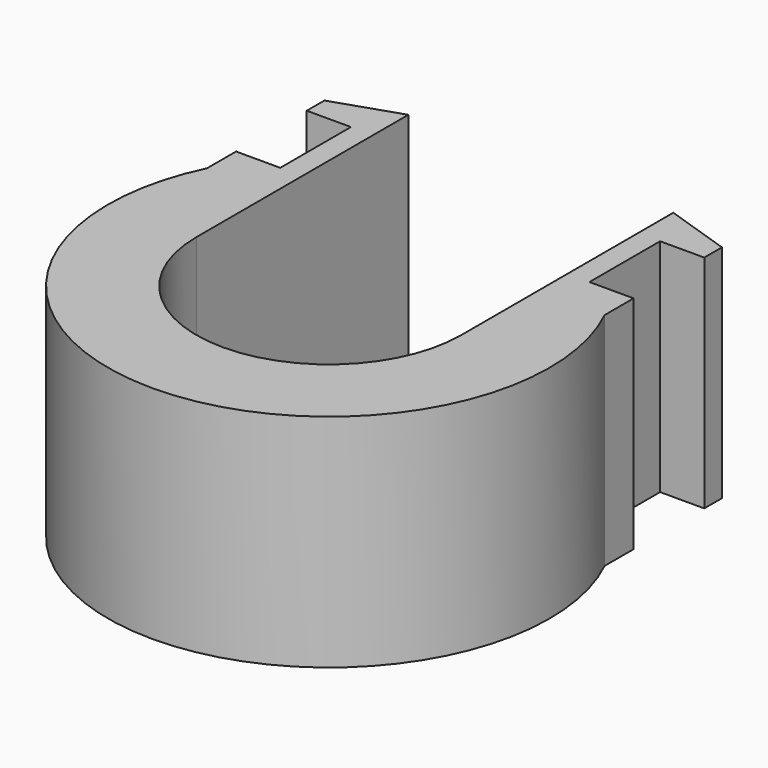
from build123d import *

# Parameters (mm, degrees)
F1_DEPTH = 5


with BuildPart() as f1:
    # F0 (on Top) → F1 (new body)
    with BuildSketch(Plane.XY):
        with BuildLine():
            Line((-4.5, 3), (-4.5, 2.179449))
            ThreePointArc((-4.5, 2.179449), (0, -5), (4.5, 2.179449))
            Line((4.5, 2.179449), (4.5, 3))
            Line((4.5, 3), (3.5, 3))
            Line((3.5, 3), (3.5, 5))
            Line((3.5, 5), (4.5, 5))
            Line((4.5, 5), (4.5, 5.5))
            Line((4.5, 5.5), (3, 6))
            Line((3, 6), (3, 0))
            ThreePointArc((3, 0), (0, -3), (-3, 0))
            Line((-3, 0), (-3, 6))
            Line((-3, 6), (-4.5, 5.5))
            Line((-4.5, 5.5), (-4.5, 5))
            Line((-4.5, 5), (-3.5, 5))
            Line((-3.5, 5), (-3.5, 3))
            Line((-3.5, 3), (-4.5, 3))
        make_face()
    extrude(amount=F1_DEPTH)


solid = f1.part
